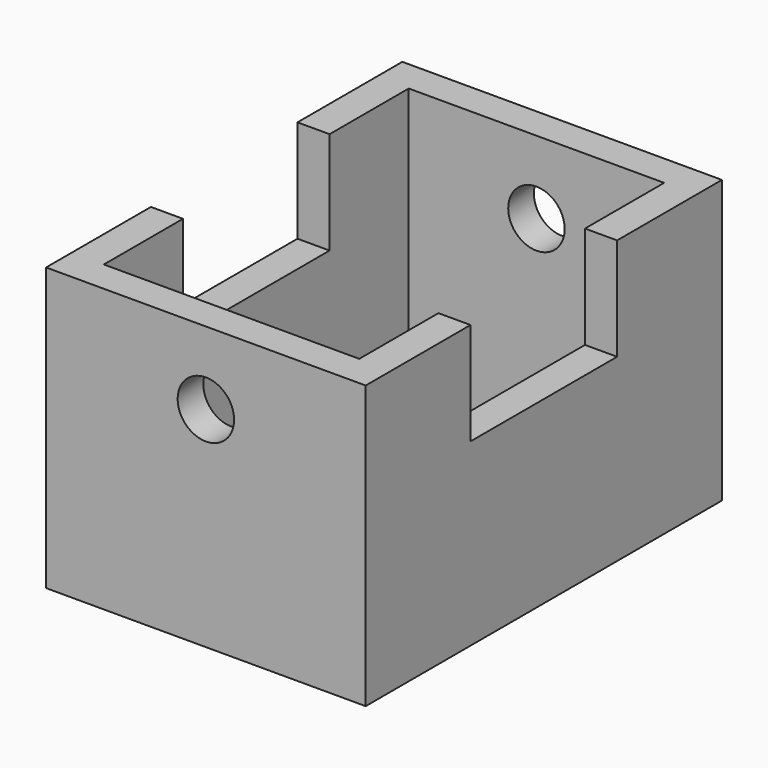
from build123d import *

# Parameters (mm, degrees)
F1_DEPTH = 63.5
F3_DEPTH = 127
F5_D     = 12.7


with BuildPart() as f1:
    # F0 (on Top) → F1 (new body)
    with BuildSketch(Plane.XY):
        Polygon((-35.944343, 50.081447), (-35.944343, 0), (-35.944343, -50.081447), (0, -50.081447), (35.944343, -50.081447), (35.944343, 0), (35.944343, 50.081447), (0, 50.081447), align=None)
        Polygon((-28.725395, -42.862501), (-28.725395, 0), (-28.725395, 42.862501), (0, 42.862501), (28.725395, 42.862501), (28.725395, 0), (28.725395, -42.862501), (0, -42.862501), align=None, mode=Mode.SUBTRACT)
    extrude(amount=F1_DEPTH)

    # F2 (on face) → F3 (cut)
    with BuildSketch(Plane.YZ.offset(35.944343)):
        Polygon((20.60408, 63.5), (-20.60408, 63.5), (-20.60408, 40.456183), (0, 40.456183), (20.60408, 40.456183), align=None)
    extrude(amount=-F3_DEPTH, mode=Mode.SUBTRACT)

    # F5 (through all)
    with Locations(Plane.XZ.offset(50.081447)):
        with Locations((0, 47.073554)):
            Hole(F5_D / 2)


solid = f1.part
